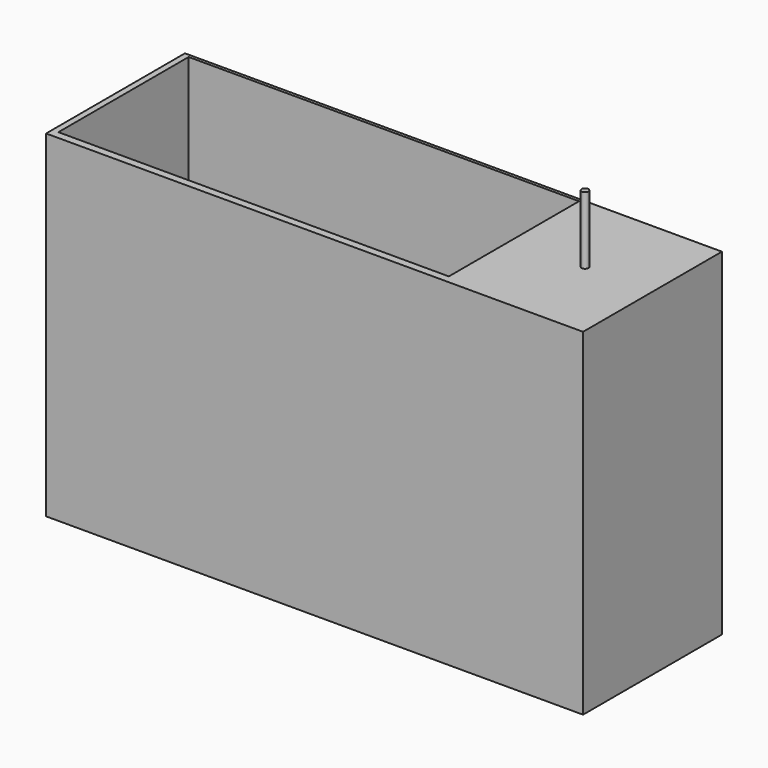
from build123d import *

# Parameters (mm, degrees)
F0_W     = 79.648294
F0_H     = 25.750952
F1_DEPTH = 50
F2_W     = 57.916386
F2_H     = 24.148573
F3_DEPTH = 25
F4_R     = 0.5
F5_DEPTH = 10


with BuildPart() as f1:
    # F0 (on Top) → F1 (new body)
    with BuildSketch(Plane.XY):
        Rectangle(F0_W, F0_H)
    extrude(amount=F1_DEPTH)

    # F2 (on face) → F3 (cut)
    with BuildSketch(Plane.XY.offset(50)):
        with Locations((-9.955351, 0.343398)):
            Rectangle(F2_W, F2_H)
    extrude(amount=-F3_DEPTH, mode=Mode.SUBTRACT)

    # F4 (on face) → F5 (join)
    with BuildSketch(Plane.XY.offset(50)):
        with Locations((29.824147, 0)):
            Circle(F4_R)
    extrude(amount=F5_DEPTH)


solid = f1.part
